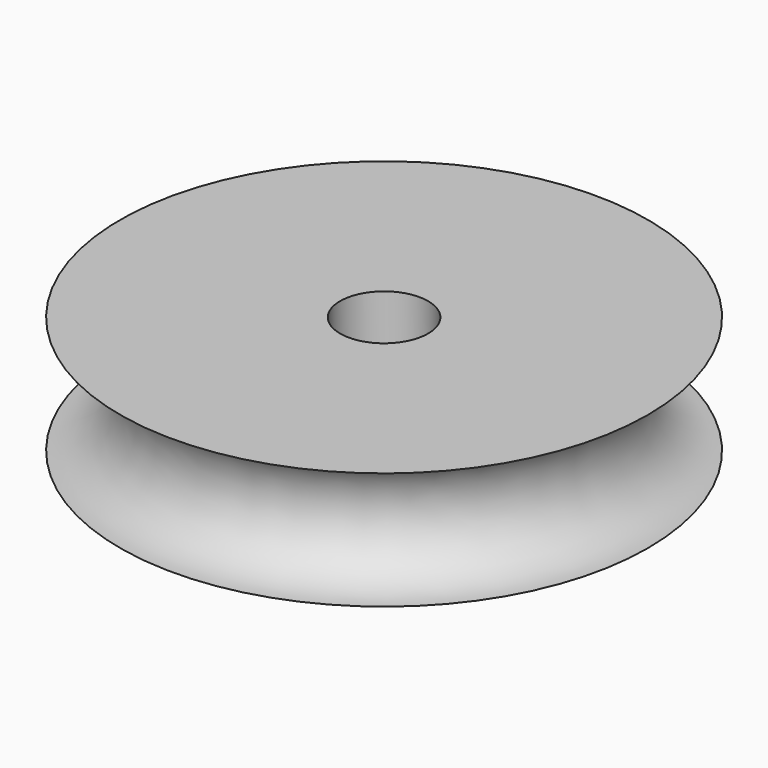
from build123d import *

# Parameters (mm, degrees)
CYLINDER001_R     = 1.5
CYLINDER001_DEPTH = 5
TORUS_R           = 2
CYLINDER_R        = 9
CYLINDER_DEPTH    = 4


with BuildPart() as cylinder001:
    # Cylinder001 → Cylinder001 (new body)
    with BuildSketch(Plane.XY):
        Circle(CYLINDER001_R)
    extrude(amount=CYLINDER001_DEPTH)


with BuildPart() as torus:
    # Torus → Torus (revolve)
    with BuildSketch(Plane(origin=(0, 0, 2), x_dir=(1, 0, 0), z_dir=(0, -1, 0))):
        with Locations((9, 0)):
            Circle(TORUS_R)
    revolve(axis=Axis((0, 0, 2), (0, 0, 1)))


with BuildPart() as cut001:
    # Cylinder → Cylinder (new body)
    with BuildSketch(Plane.XY):
        Circle(CYLINDER_R)
    extrude(amount=CYLINDER_DEPTH)

    # Cut: cut Torus
    add(torus.part, mode=Mode.SUBTRACT)

    # Cut001: cut Cylinder001
    add(cylinder001.part, mode=Mode.SUBTRACT)


solid = cut001.part
